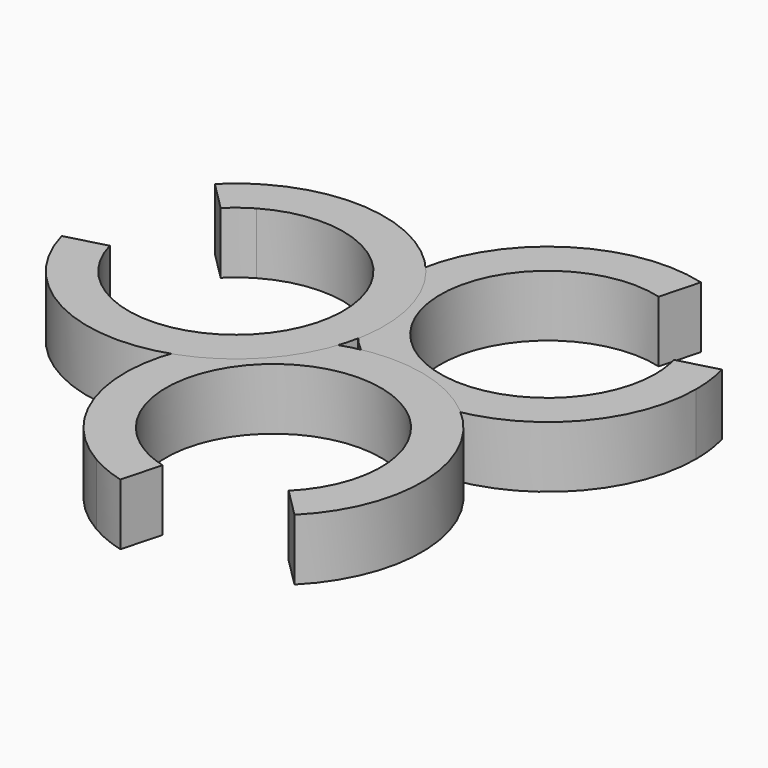
from build123d import *

# Parameters (mm, degrees)
F4_DEPTH = 3
F6_COUNT = 3


with BuildPart() as f4:
    # F3 (on Top) → F4 (new body)
    with BuildSketch(Plane.XY):
        with BuildLine():
            ThreePointArc((10.3744114469, 6.6621008457), (10.5083863811, 5.9885633681), (10.5533008589, 5.3033008589))
            ThreePointArc((10.5533008589, 5.3033008589), (1.1381958224, 2.1073033566), (6.6621008457, 10.3744114469))
            Line((6.6621008457, 10.3744114469), (7.1797389359, 12.3062630995))
            ThreePointArc((7.1797389359, 12.3062630995), (-0.4485108582, 0.8897804986), (12.5533008589, 5.3033008589))
            ThreePointArc((12.5533008589, 5.3033008589), (12.4912761039, 6.2496157525), (12.3062630995, 7.1797389359))
            Line((12.3062630995, 7.1797389359), (10.3744114469, 6.6621008457))
        make_face()
    extrude(amount=F4_DEPTH)


with BuildPart() as f6_1:
    # F6: instance of F4
    add(f4.part.rotate(Axis((0, 0, 1.1117210479), (0, 0, -1)), 1 * 360 / F6_COUNT))


with BuildPart() as f6_2:
    # F6: instance of F4
    add(f4.part.rotate(Axis((0, 0, 1.1117210479), (0, 0, -1)), 2 * 360 / F6_COUNT))


solid = Compound([f4.part, f6_1.part, f6_2.part])
